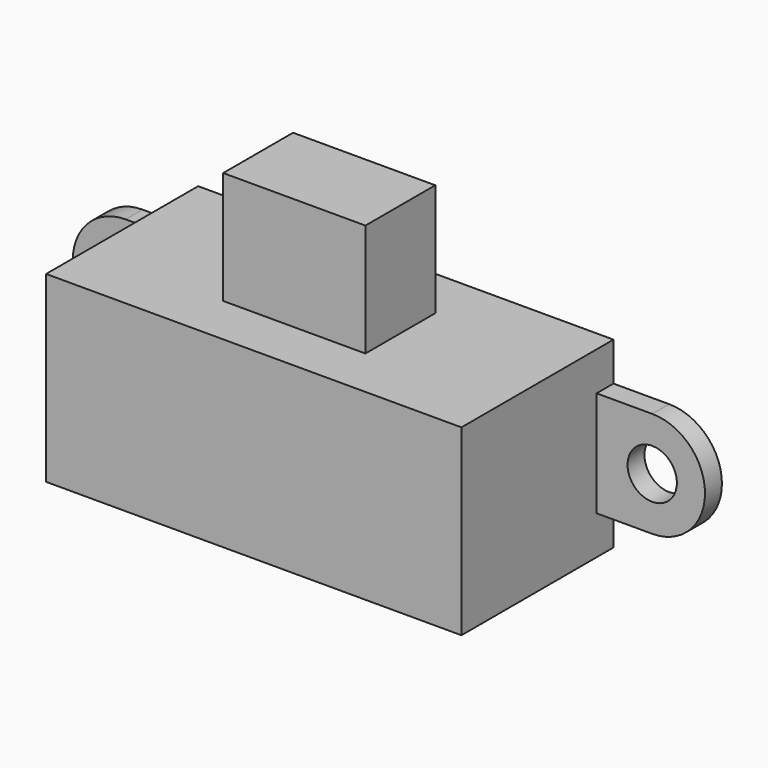
from build123d import *

# Parameters (mm, degrees)
SKETCH034_W             = 29.5
SKETCH034_H             = 13
PAD022_DEPTH            = 13.5
SKETCH035_R             = 1.75
PAD023_DEPTH            = 1.5
SKETCH036_W             = 10.1
SKETCH036_H             = 6.2
PAD024_DEPTH            = 8
BODY006_PLACEMENT_ANGLE = 180


with BuildPart() as part:
    # Sketch034 → Pad022 (new body)
    with BuildSketch(Plane.XZ):
        Rectangle(SKETCH034_W, SKETCH034_H)
    extrude(amount=PAD022_DEPTH)

    # Sketch035 (on Face5 of Pad022) → Pad023 (join)
    with BuildSketch(Plane(origin=(0, 0, 0), x_dir=(1, 0, 0), z_dir=(0, 1, 0))):
        with BuildLine():
            ThreePointArc((-18.7, 3.75), (-22.45, 0), (-18.7, -3.75))
            Line((18.69999, -3.75), (-18.7, -3.75))
            ThreePointArc((18.69999, -3.75), (22.45, -5e-06), (18.7, 3.75))
            Line((-18.7, 3.75), (18.7, 3.75))
        make_face()
        with Locations((-18.7, 0)):
            Circle(SKETCH035_R, mode=Mode.SUBTRACT)
        with Locations((18.7, 0)):
            Circle(SKETCH035_R, mode=Mode.SUBTRACT)
    extrude(amount=-PAD023_DEPTH)

    # Sketch036 (on Face10 of Pad023) → Pad024 (join)
    with BuildSketch(Plane(origin=(0, 0, -6.5), x_dir=(1, 0, 0), z_dir=(0, 0, -1))):
        with Locations((0, 6.8)):
            Rectangle(SKETCH036_W, SKETCH036_H)
    extrude(amount=PAD024_DEPTH)


with BuildPart() as part_1:
    # Body006 placement: moved
    add(part.part.moved(Location((-82.5, 61.5, 20))).rotate(Axis((-82.5, 61.5, 20), (0, 1, 0)), BODY006_PLACEMENT_ANGLE))


solid = part_1.part
